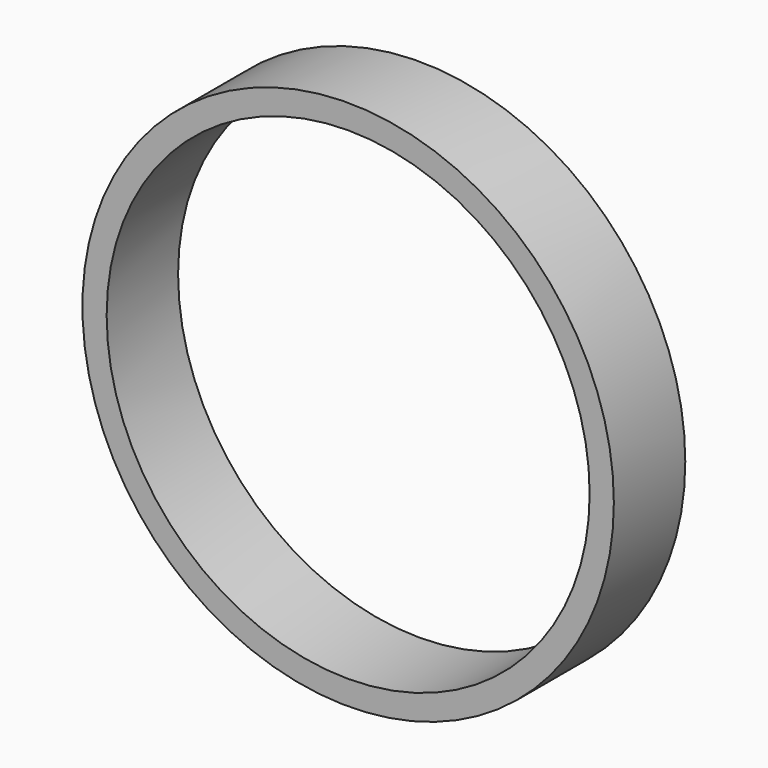
from build123d import *

# Parameters (mm, degrees)
F0_R     = 75.583373
F1_DEPTH = 12.7
F2_R     = 68.696091
F3_DEPTH = 25.4


with BuildPart() as f1:
    # F0 (on Front) → F1 (new body, symmetric)
    with BuildSketch(Plane.XZ):
        Circle(F0_R)
    extrude(amount=F1_DEPTH, both=True)

    # F2 (on Front) → F3 (cut, symmetric)
    with BuildSketch(Plane.XZ):
        Circle(F2_R)
    extrude(amount=F3_DEPTH, both=True, mode=Mode.SUBTRACT)


solid = f1.part
